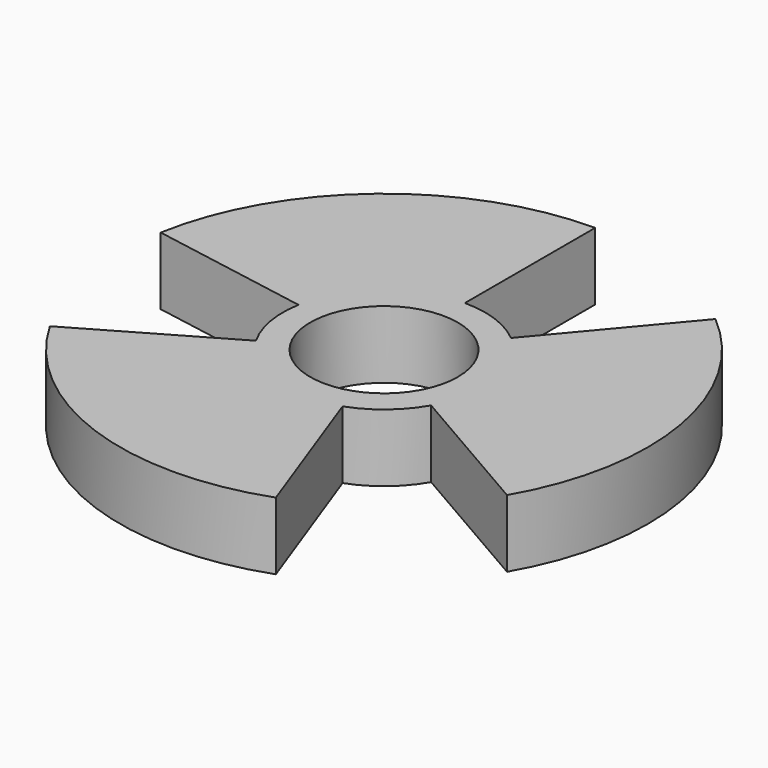
from build123d import *

# Parameters (mm, degrees)
F0_R      = 28.3757796524
F1_DEPTH  = 8.636
F2_R      = 3.772916628
F3_DEPTH  = 25.4
F5_R      = 5.3605373526
F6_DEPTH  = 1.3716
F7_R      = 1.4989937
F8_DEPTH  = 25.4
F10_DEPTH = 25.4


with BuildPart() as f1:
    # F0 (on Top) → F1 (new body)
    with BuildSketch(Plane.XY):
        with Locations((-28.4617077559, 15.6847797334)):
            Circle(F0_R)
    extrude(amount=F1_DEPTH)

    # F2 (on face) → F3 (cut)
    with BuildSketch(Plane.XY.offset(8.636)):
        with Locations((-28.4617077559, 15.6847797334)):
            Circle(F2_R)
    extrude(amount=-F3_DEPTH, mode=Mode.SUBTRACT)


with BuildPart() as f6:
    # F5 (on Top) → F6 (new body)
    with BuildSketch(Plane.XY):
        Circle(F5_R)
    extrude(amount=F6_DEPTH)

    # F7 (on face) → F8 (cut)
    with BuildSketch(Plane.XY.offset(1.3716)):
        Circle(F7_R)
    extrude(amount=-F8_DEPTH, mode=Mode.SUBTRACT)

    # F9 (on face) → F10 (cut)
    with BuildSketch(Plane.XY.offset(1.3716)):
        with BuildLine():
            Line((4.6423615252, -2.6802686763), (1.7784824816, -1.0268073395))
            ThreePointArc((1.7784824816, -1.0268073395), (1.3200380707, -1.5731601132), (0.7023775868, -1.9297665598))
            Line((0.7023775868, -1.9297665598), (1.8334117536, -5.0372573936))
            ThreePointArc((1.8334117536, -5.0372573936), (3.4456869915, -4.1064098511), (4.6423615252, -2.6802686763))
        make_face()
        with BuildLine():
            Line((-4.6423615252, -2.6802686763), (-1.7784824816, -1.0268073395))
            ThreePointArc((-1.7784824816, -1.0268073395), (-2.0224156576, -0.3566064466), (-2.0224156576, 0.3566064466))
            Line((-2.0224156576, 0.3566064466), (-5.2790987451, 0.9308475426))
            ThreePointArc((-5.2790987451, 0.9308475426), (-5.2790987451, -0.9308475426), (-4.6423615252, -2.6802686763))
        make_face()
        with BuildLine():
            ThreePointArc((0, 2.053614679), (0.7023775868, 1.9297665598), (1.3200380707, 1.5731601132))
            Line((1.3200380707, 1.5731601132), (3.4456869915, 4.1064098511))
            ThreePointArc((3.4456869915, 4.1064098511), (1.8334117536, 5.0372573936), (0, 5.3605373526))
            Line((0, 5.3605373526), (0, 2.053614679))
        make_face()
    extrude(amount=-F10_DEPTH, mode=Mode.SUBTRACT)


solid = f6.part
